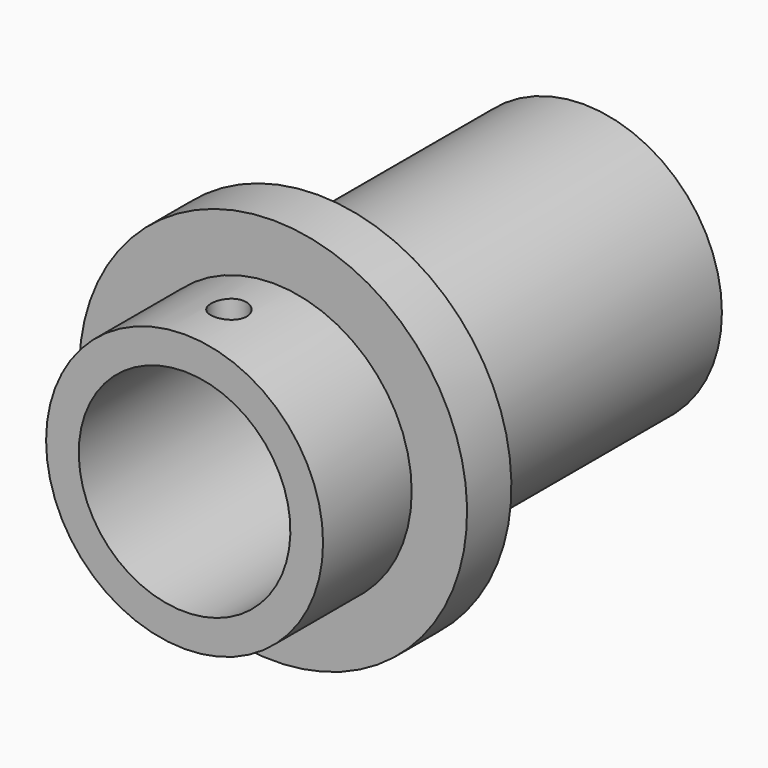
from build123d import *

# Parameters (mm, degrees)
F2_R     = 1.6
F3_DEPTH = 17.501


with BuildPart() as f1:
    # F0 (on Right) → F1 (revolve)
    with BuildSketch(Plane.YZ):
        Polygon((0, 12.5), (0, 9.55), (45, 9.55), (45, 12.5), (15, 12.5), (15, 17.5), (10, 17.5), (10, 12.5), align=None)
    revolve(axis=Axis((0, 25.840476, 0), (0, 1, 0)))

    # F2 (on Top) → F3 (cut, through all)
    with BuildSketch(Plane.XY):
        with Locations((0, 5)):
            Circle(F2_R)
    extrude(amount=F3_DEPTH, mode=Mode.SUBTRACT)


solid = f1.part
